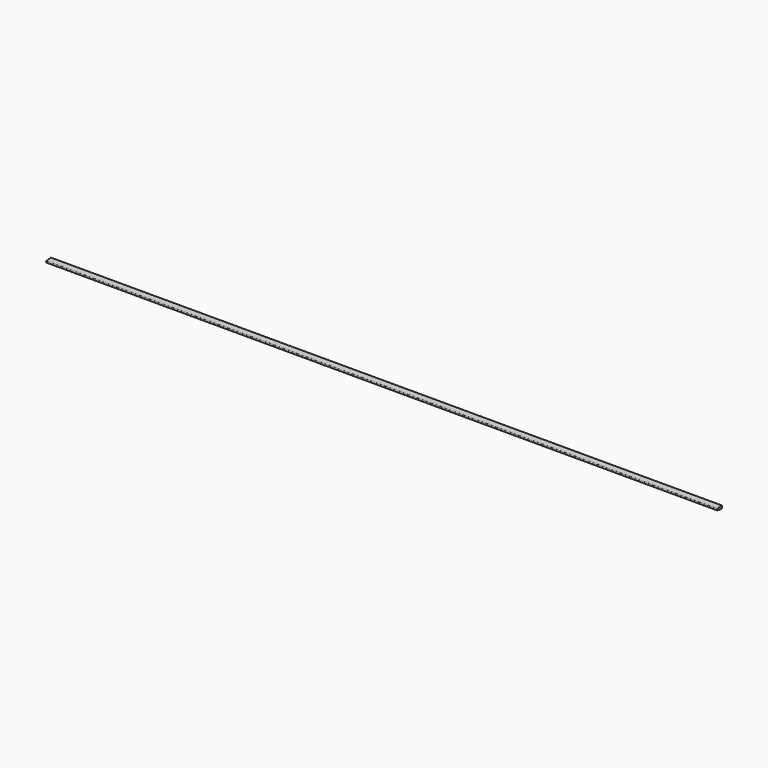
from build123d import *

# Parameters (mm, degrees)
F1_DEPTH = 1203.325


with BuildPart() as f1:
    # F0 (on Right) → F1 (new body, symmetric)
    with BuildSketch(Plane.YZ):
        with BuildLine():
            ThreePointArc((-16.66875, 0), (-17.6251806772, 2.097476653), (-19.8359280858, 2.7507483004))
            ThreePointArc((-19.8359280858, 2.7507483004), (-22.225, 0), (-19.8359280858, -2.7507483004))
            ThreePointArc((-19.8359280858, -2.7507483004), (-17.6251806772, -2.097476653), (-16.66875, 0))
        make_face()
        with BuildLine():
            Line((-0.8483794827, -5.4362591395), (0, 0))
            Line((0, 0), (-0.8483794827, 5.4362591395))
            Line((-0.8483794827, 5.4362591395), (-19.8359280858, 2.7507483004))
            ThreePointArc((-19.8359280858, 2.7507483004), (-17.6251806772, 2.097476653), (-16.66875, 0))
            ThreePointArc((-16.66875, 0), (-17.6251806772, -2.097476653), (-19.8359280858, -2.7507483004))
            Line((-19.8359280858, -2.7507483004), (-0.8483794827, -5.4362591395))
        make_face()
    extrude(amount=F1_DEPTH, both=True)


solid = f1.part
